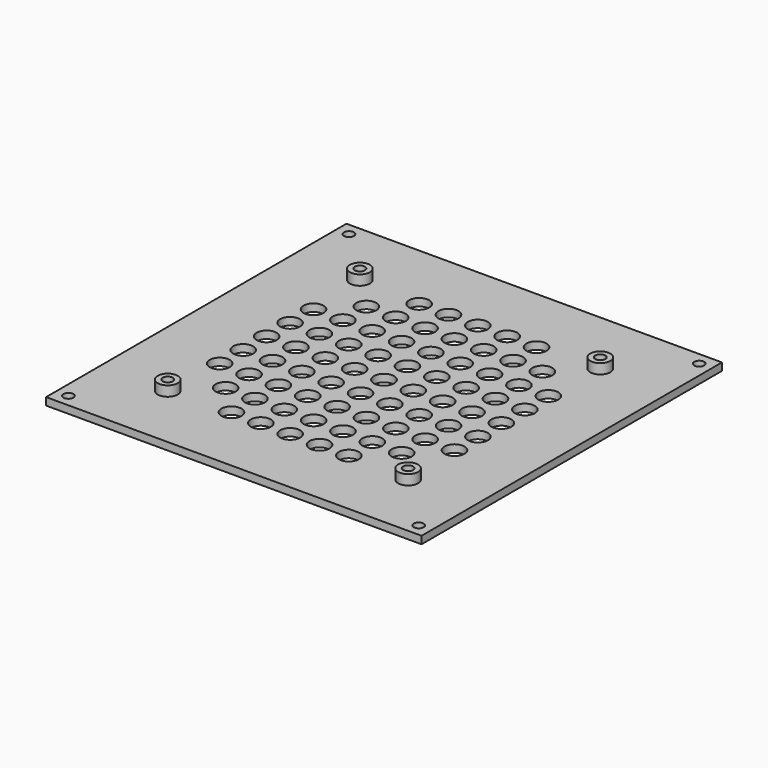
from build123d import *

# Parameters (mm, degrees)
SKETCH_W      = 150
SKETCH_H      = 150
SKETCH_R      = 4
SKETCH_R_2    = 2
PAD_DEPTH     = 3
SKETCH001_R   = 4
SKETCH001_R_2 = 2
PAD001_DEPTH  = 4


with BuildPart() as part:
    # Sketch → Pad (new body)
    with BuildSketch(Plane.XY):
        Rectangle(SKETCH_W, SKETCH_H)
        with Locations((-23.457463, 46.865997)):
            Circle(SKETCH_R, mode=Mode.SUBTRACT)
        with Locations((-11.738286, 46.871353)):
            Circle(SKETCH_R, mode=Mode.SUBTRACT)
        with Locations((-0.019109, 46.876709)):
            Circle(SKETCH_R, mode=Mode.SUBTRACT)
        with Locations((11.700068, 46.882065)):
            Circle(SKETCH_R, mode=Mode.SUBTRACT)
        with Locations((23.419245, 46.887421)):
            Circle(SKETCH_R, mode=Mode.SUBTRACT)
        with Locations((-35.173599, 35.141463)):
            Circle(SKETCH_R, mode=Mode.SUBTRACT)
        with Locations((-23.454422, 35.146819)):
            Circle(SKETCH_R, mode=Mode.SUBTRACT)
        with Locations((-11.735245, 35.152175)):
            Circle(SKETCH_R, mode=Mode.SUBTRACT)
        with Locations((-0.016068, 35.157531)):
            Circle(SKETCH_R, mode=Mode.SUBTRACT)
        with Locations((11.703109, 35.162887)):
            Circle(SKETCH_R, mode=Mode.SUBTRACT)
        with Locations((23.422286, 35.168243)):
            Circle(SKETCH_R, mode=Mode.SUBTRACT)
        with Locations((35.141463, 35.173599)):
            Circle(SKETCH_R, mode=Mode.SUBTRACT)
        with Locations((-46.88742, 23.41693)):
            Circle(SKETCH_R, mode=Mode.SUBTRACT)
        with Locations((-35.168243, 23.422286)):
            Circle(SKETCH_R, mode=Mode.SUBTRACT)
        with Locations((-23.449066, 23.427642)):
            Circle(SKETCH_R, mode=Mode.SUBTRACT)
        with Locations((-11.729889, 23.432998)):
            Circle(SKETCH_R, mode=Mode.SUBTRACT)
        with Locations((-0.010712, 23.438354)):
            Circle(SKETCH_R, mode=Mode.SUBTRACT)
        with Locations((11.708465, 23.44371)):
            Circle(SKETCH_R, mode=Mode.SUBTRACT)
        with Locations((23.427642, 23.449066)):
            Circle(SKETCH_R, mode=Mode.SUBTRACT)
        with Locations((35.146819, 23.454422)):
            Circle(SKETCH_R, mode=Mode.SUBTRACT)
        with Locations((46.865996, 23.459778)):
            Circle(SKETCH_R, mode=Mode.SUBTRACT)
        with Locations((-46.882064, 11.697753)):
            Circle(SKETCH_R, mode=Mode.SUBTRACT)
        with Locations((-35.162887, 11.703109)):
            Circle(SKETCH_R, mode=Mode.SUBTRACT)
        with Locations((-23.44371, 11.708465)):
            Circle(SKETCH_R, mode=Mode.SUBTRACT)
        with Locations((-11.724533, 11.713821)):
            Circle(SKETCH_R, mode=Mode.SUBTRACT)
        with Locations((-0.005356, 11.719177)):
            Circle(SKETCH_R, mode=Mode.SUBTRACT)
        with Locations((11.713821, 11.724533)):
            Circle(SKETCH_R, mode=Mode.SUBTRACT)
        with Locations((23.432998, 11.729889)):
            Circle(SKETCH_R, mode=Mode.SUBTRACT)
        with Locations((35.152175, 11.735245)):
            Circle(SKETCH_R, mode=Mode.SUBTRACT)
        with Locations((46.871352, 11.740601)):
            Circle(SKETCH_R, mode=Mode.SUBTRACT)
        with Locations((-46.876708, -0.021424)):
            Circle(SKETCH_R, mode=Mode.SUBTRACT)
        with Locations((-35.157531, -0.016068)):
            Circle(SKETCH_R, mode=Mode.SUBTRACT)
        with Locations((-23.438354, -0.010712)):
            Circle(SKETCH_R, mode=Mode.SUBTRACT)
        with Locations((-11.719177, -0.005356)):
            Circle(SKETCH_R, mode=Mode.SUBTRACT)
        Circle(SKETCH_R, mode=Mode.SUBTRACT)
        with Locations((11.719177, 0.005356)):
            Circle(SKETCH_R, mode=Mode.SUBTRACT)
        with Locations((23.438354, 0.010712)):
            Circle(SKETCH_R, mode=Mode.SUBTRACT)
        with Locations((35.157531, 0.016068)):
            Circle(SKETCH_R, mode=Mode.SUBTRACT)
        with Locations((46.876708, 0.021424)):
            Circle(SKETCH_R, mode=Mode.SUBTRACT)
        with Locations((-46.871352, -11.740601)):
            Circle(SKETCH_R, mode=Mode.SUBTRACT)
        with Locations((-35.152175, -11.735245)):
            Circle(SKETCH_R, mode=Mode.SUBTRACT)
        with Locations((-23.432998, -11.729889)):
            Circle(SKETCH_R, mode=Mode.SUBTRACT)
        with Locations((-11.713821, -11.724533)):
            Circle(SKETCH_R, mode=Mode.SUBTRACT)
        with Locations((0.005356, -11.719177)):
            Circle(SKETCH_R, mode=Mode.SUBTRACT)
        with Locations((11.724533, -11.713821)):
            Circle(SKETCH_R, mode=Mode.SUBTRACT)
        with Locations((23.44371, -11.708465)):
            Circle(SKETCH_R, mode=Mode.SUBTRACT)
        with Locations((35.162887, -11.703109)):
            Circle(SKETCH_R, mode=Mode.SUBTRACT)
        with Locations((46.882064, -11.697753)):
            Circle(SKETCH_R, mode=Mode.SUBTRACT)
        with Locations((-46.865996, -23.459778)):
            Circle(SKETCH_R, mode=Mode.SUBTRACT)
        with Locations((-35.146819, -23.454422)):
            Circle(SKETCH_R, mode=Mode.SUBTRACT)
        with Locations((-23.427642, -23.449066)):
            Circle(SKETCH_R, mode=Mode.SUBTRACT)
        with Locations((-11.708465, -23.44371)):
            Circle(SKETCH_R, mode=Mode.SUBTRACT)
        with Locations((0.010712, -23.438354)):
            Circle(SKETCH_R, mode=Mode.SUBTRACT)
        with Locations((11.729889, -23.432998)):
            Circle(SKETCH_R, mode=Mode.SUBTRACT)
        with Locations((23.449066, -23.427642)):
            Circle(SKETCH_R, mode=Mode.SUBTRACT)
        with Locations((35.168243, -23.422286)):
            Circle(SKETCH_R, mode=Mode.SUBTRACT)
        with Locations((46.88742, -23.41693)):
            Circle(SKETCH_R, mode=Mode.SUBTRACT)
        with Locations((-35.141463, -35.173599)):
            Circle(SKETCH_R, mode=Mode.SUBTRACT)
        with Locations((-23.422286, -35.168243)):
            Circle(SKETCH_R, mode=Mode.SUBTRACT)
        with Locations((-11.703109, -35.162887)):
            Circle(SKETCH_R, mode=Mode.SUBTRACT)
        with Locations((0.016068, -35.157531)):
            Circle(SKETCH_R, mode=Mode.SUBTRACT)
        with Locations((11.735245, -35.152175)):
            Circle(SKETCH_R, mode=Mode.SUBTRACT)
        with Locations((23.454422, -35.146819)):
            Circle(SKETCH_R, mode=Mode.SUBTRACT)
        with Locations((35.173599, -35.141463)):
            Circle(SKETCH_R, mode=Mode.SUBTRACT)
        with Locations((-23.416872, -46.88742)):
            Circle(SKETCH_R, mode=Mode.SUBTRACT)
        with Locations((-11.697695, -46.882064)):
            Circle(SKETCH_R, mode=Mode.SUBTRACT)
        with Locations((0.021482, -46.876708)):
            Circle(SKETCH_R, mode=Mode.SUBTRACT)
        with Locations((11.740659, -46.871352)):
            Circle(SKETCH_R, mode=Mode.SUBTRACT)
        with Locations((23.459836, -46.865996)):
            Circle(SKETCH_R, mode=Mode.SUBTRACT)
        with Locations((-47.999982, 47.941119)):
            Circle(SKETCH_R_2, mode=Mode.SUBTRACT)
        with Locations((48, 48)):
            Circle(SKETCH_R_2, mode=Mode.SUBTRACT)
        with Locations((-47.941101, -48.058863)):
            Circle(SKETCH_R_2, mode=Mode.SUBTRACT)
        with Locations((48.058881, -47.999982)):
            Circle(SKETCH_R_2, mode=Mode.SUBTRACT)
        with Locations((-70, 70)):
            Circle(SKETCH_R_2, mode=Mode.SUBTRACT)
        with Locations((69.999974, 69.915361)):
            Circle(SKETCH_R_2, mode=Mode.SUBTRACT)
        with Locations((-70.084639, -69.999974)):
            Circle(SKETCH_R_2, mode=Mode.SUBTRACT)
        with Locations((69.915335, -70.084614)):
            Circle(SKETCH_R_2, mode=Mode.SUBTRACT)
    extrude(amount=PAD_DEPTH)

    # Sketch001 (on DatumPlane) → Pad001 (join)
    with BuildSketch(Plane.XY.offset(3)):
        with Locations((-48.014584, 47.985412)):
            Circle(SKETCH001_R)
        with Locations((-48.014584, 47.985412)):
            Circle(SKETCH001_R_2, mode=Mode.SUBTRACT)
        with Locations((47.985412, 48.014584)):
            Circle(SKETCH001_R)
        with Locations((47.985412, 48.014584)):
            Circle(SKETCH001_R_2, mode=Mode.SUBTRACT)
        with Locations((-47.985412, -48.014584)):
            Circle(SKETCH001_R)
        with Locations((-47.985412, -48.014584)):
            Circle(SKETCH001_R_2, mode=Mode.SUBTRACT)
        with Locations((48.014584, -47.985412)):
            Circle(SKETCH001_R)
        with Locations((48.014584, -47.985412)):
            Circle(SKETCH001_R_2, mode=Mode.SUBTRACT)
    extrude(amount=PAD001_DEPTH)


solid = part.part
